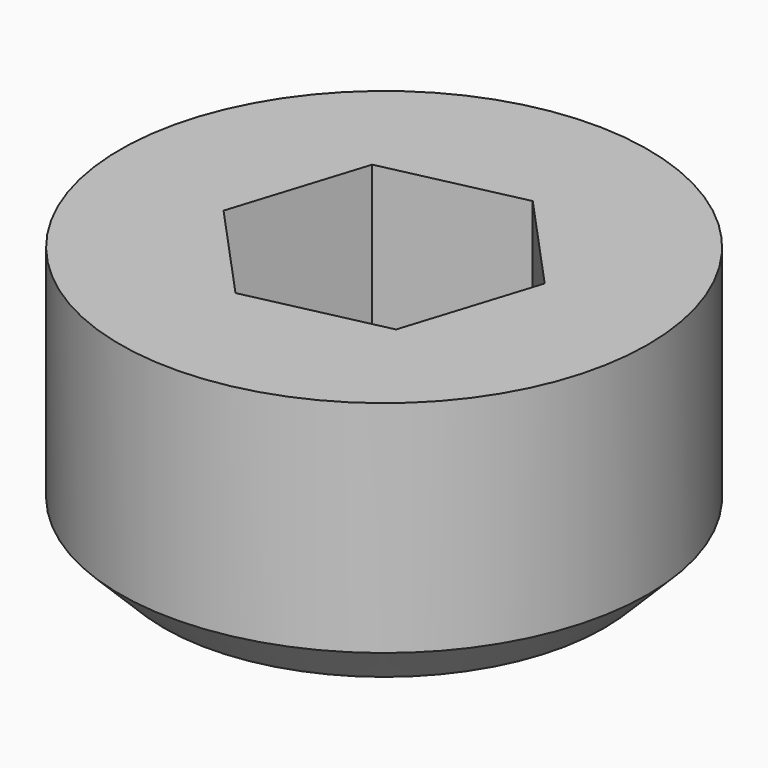
from build123d import *

# Parameters (mm, degrees)
SKETCH_R        = 6
PAD_DEPTH       = 6
SKETCH001_R     = 1.75
POCKET_DEPTH    = 6.001
POCKET001_DEPTH = 3.5
CHAMFER_SIZE    = 1


with BuildPart() as part:
    # Sketch → Pad (new body)
    with BuildSketch(Plane.XY):
        Circle(SKETCH_R)
    extrude(amount=PAD_DEPTH)

    # Sketch001 → Pocket (cut, through all)
    with BuildSketch(Plane.XY.offset(6)):
        Circle(SKETCH001_R)
    extrude(amount=-POCKET_DEPTH, mode=Mode.SUBTRACT)

    # Sketch002 → Pocket001 (cut)
    with BuildSketch(Plane.XY.offset(6)):
        Polygon((2.144846, -2.341574), (3.100286, 0.686704), (0.95544, 3.028278), (-2.144846, 2.341574), (-3.100286, -0.686704), (-0.95544, -3.028278), align=None)
    extrude(amount=-POCKET001_DEPTH, mode=Mode.SUBTRACT)

    # Chamfer
    chamfer_edges = [part.edges().sort_by_distance(p)[0] for p in [
        (-6, 0, 0),
    ]]
    chamfer(chamfer_edges, length=CHAMFER_SIZE)


solid = part.part
